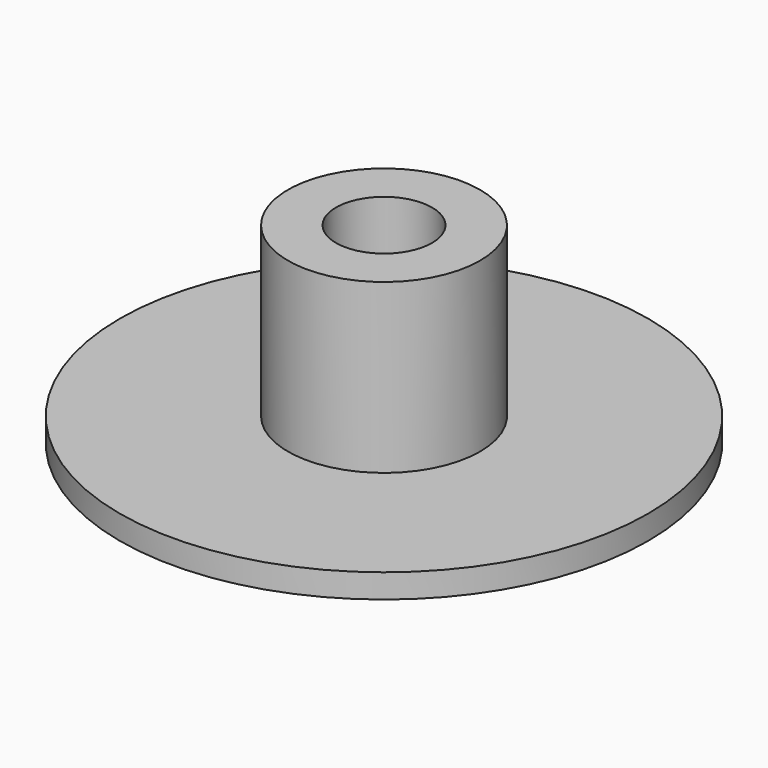
from build123d import *

# Parameters (mm, degrees)
F0_R     = 11
F0_R_2   = 4
F1_DEPTH = 1
F2_R     = 4
F3_DEPTH = 7
F4_R     = 2
F5_DEPTH = 4


with BuildPart() as f1:
    # F0 (on Top) → F1 (new body)
    with BuildSketch(Plane.XY):
        Circle(F0_R)
        Circle(F0_R_2, mode=Mode.SUBTRACT)
        Circle(F0_R_2)
    extrude(amount=F1_DEPTH)

    # F2 (on face) → F3 (join)
    with BuildSketch(Plane.XY.offset(1)):
        Circle(F2_R)
    extrude(amount=F3_DEPTH)

    # F4 (on face) → F5 (cut)
    with BuildSketch(Plane.XY.offset(8)):
        Circle(F4_R)
    extrude(amount=-F5_DEPTH, mode=Mode.SUBTRACT)


solid = f1.part
